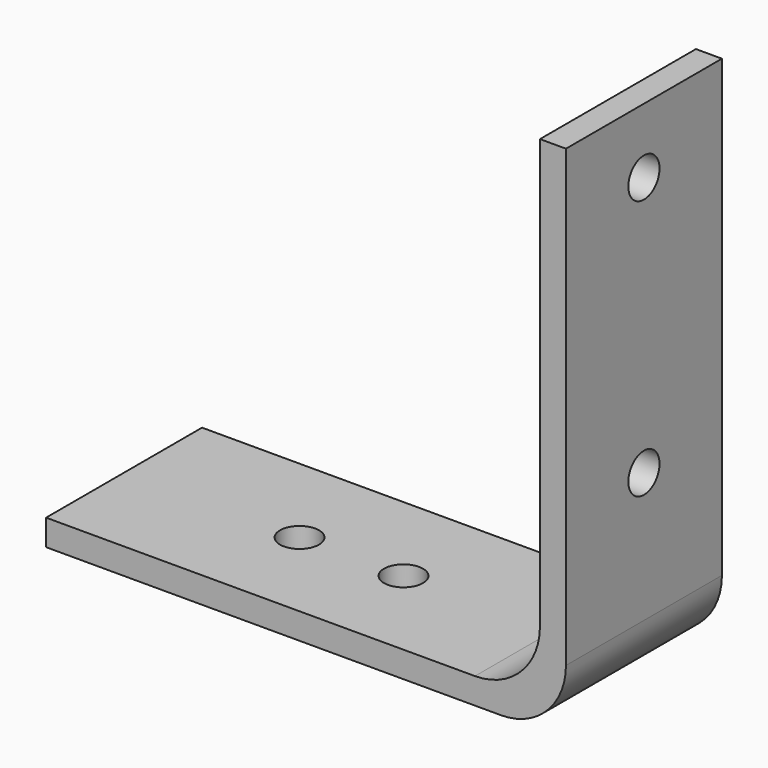
from build123d import *

# Parameters (mm, degrees)
F1_DEPTH = 15
F2_R     = 5
F4_D     = 3
F6_D     = 3


with BuildPart() as f1:
    # F0 (on Front) → F1 (new body)
    with BuildSketch(Plane.XZ):
        Polygon((0, -40), (0, 0), (-2, 0), (-2, -38), (-40, -38), (-40, -40), align=None)
    extrude(amount=F1_DEPTH)

    # F2
    f2_edges = [f1.edges().sort_by_distance(p)[0] for p in [
        (0, -7.5, -40),
        (-2, -7.5, -38),
    ]]
    fillet(f2_edges, radius=F2_R)

    # F4 (through all)
    with Locations(Plane(origin=(-2, 0, 0), x_dir=(0, -1, 0), z_dir=(-1, 0, 0))):
        with Locations((7.5, -5), (7.5, -25)):
            Hole(F4_D / 2)

    # F6 (through all)
    with Locations(Plane(origin=(0, 0, -40), x_dir=(1, 0, 0), z_dir=(0, 0, -1))):
        with Locations((-26.5, 7.5), (-18.5, 7.5)):
            Hole(F6_D / 2)


solid = f1.part
